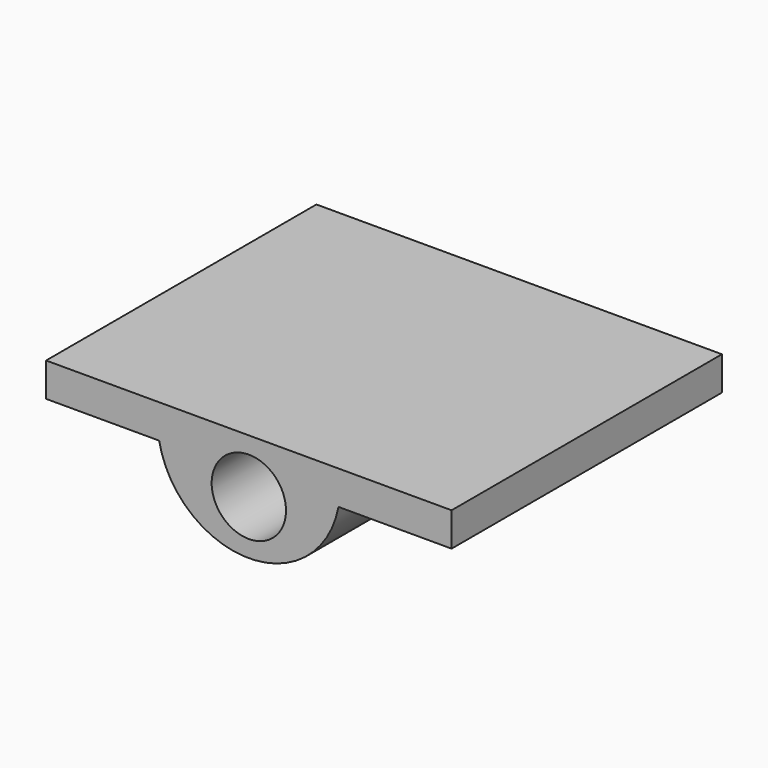
from build123d import *

# Parameters (mm, degrees)
F0_R     = 6.985
F1_DEPTH = 63.5


with BuildPart() as f1:
    # F0 (on Front) → F1 (new body)
    with BuildSketch(Plane.XZ):
        with BuildLine():
            Line((38.1, -3.175), (38.1, 3.175))
            Line((38.1, 3.175), (0, 3.175))
            Line((0, 3.175), (-38.1, 3.175))
            Line((-38.1, 3.175), (-38.1, -3.175))
            Line((-38.1, -3.175), (-16.848454, -3.175))
            ThreePointArc((-16.848454, -3.175), (0, -17.145), (16.848454, -3.175))
            Line((16.848454, -3.175), (38.1, -3.175))
        make_face()
        with Locations((0, -6.985)):
            Circle(F0_R, mode=Mode.SUBTRACT)
    extrude(amount=F1_DEPTH)


solid = f1.part
